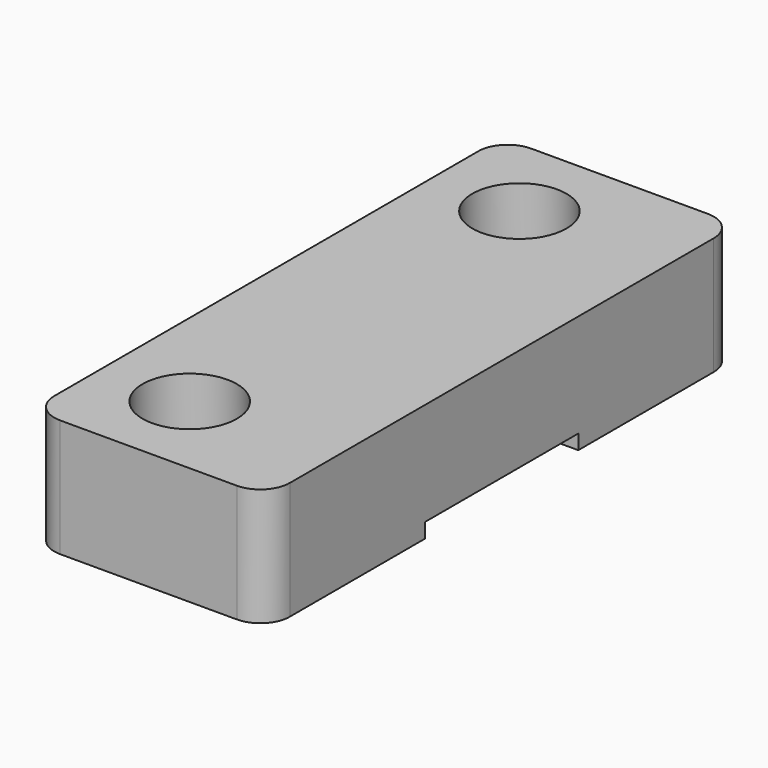
from build123d import *

# Parameters (mm, degrees)
BOX009_W          = 10
BOX009_H          = 6.5
BOX009_DEPTH      = 0.5
CYLINDER012_R     = 1.6
CYLINDER012_DEPTH = 10
CYLINDER011_R     = 1.6
CYLINDER011_DEPTH = 10
BOX008_W          = 8
BOX008_H          = 20
BOX008_DEPTH      = 4
FILLET002_R       = 1


with BuildPart() as cube009:
    # Box009 → Box009 (new body)
    with BuildSketch(Plane(origin=(-4, -3.25, 0), x_dir=(1, 0, 0), z_dir=(0, 0, 1))):
        with Locations((5, 3.25)):
            Rectangle(BOX009_W, BOX009_H)
    extrude(amount=BOX009_DEPTH)


with BuildPart() as cylinder012:
    # Cylinder012 → Cylinder012 (new body)
    with BuildSketch(Plane(origin=(0, -7, 0), x_dir=(1, 0, 0), z_dir=(0, 0, 1))):
        Circle(CYLINDER012_R)
    extrude(amount=CYLINDER012_DEPTH)


with BuildPart() as fusion017:
    # Cylinder011 → Cylinder011 (new body)
    with BuildSketch(Plane(origin=(0, 7, 0), x_dir=(1, 0, 0), z_dir=(0, 0, 1))):
        Circle(CYLINDER011_R)
    extrude(amount=CYLINDER011_DEPTH)

    # Fusion017: union Cylinder012
    add(cylinder012.part)


with BuildPart() as belt_clamp002:
    # Box008 → Box008 (new body)
    with BuildSketch(Plane(origin=(-3, -10, 0), x_dir=(1, 0, 0), z_dir=(0, 0, 1))):
        with Locations((4, 10)):
            Rectangle(BOX008_W, BOX008_H)
    extrude(amount=BOX008_DEPTH)

    # Fillet002
    fillet002_edges = [belt_clamp002.edges().sort_by_distance(p)[0] for p in [
        (-3, -10, 2),
        (-3, 10, 2),
        (5, -10, 2),
        (5, 10, 2),
    ]]
    fillet(fillet002_edges, radius=FILLET002_R)

    # Cut008004003012001003001009: cut Fusion017
    add(fusion017.part, mode=Mode.SUBTRACT)

    # Cut008004003012001003001010: cut Cube009
    add(cube009.part, mode=Mode.SUBTRACT)


solid = belt_clamp002.part
